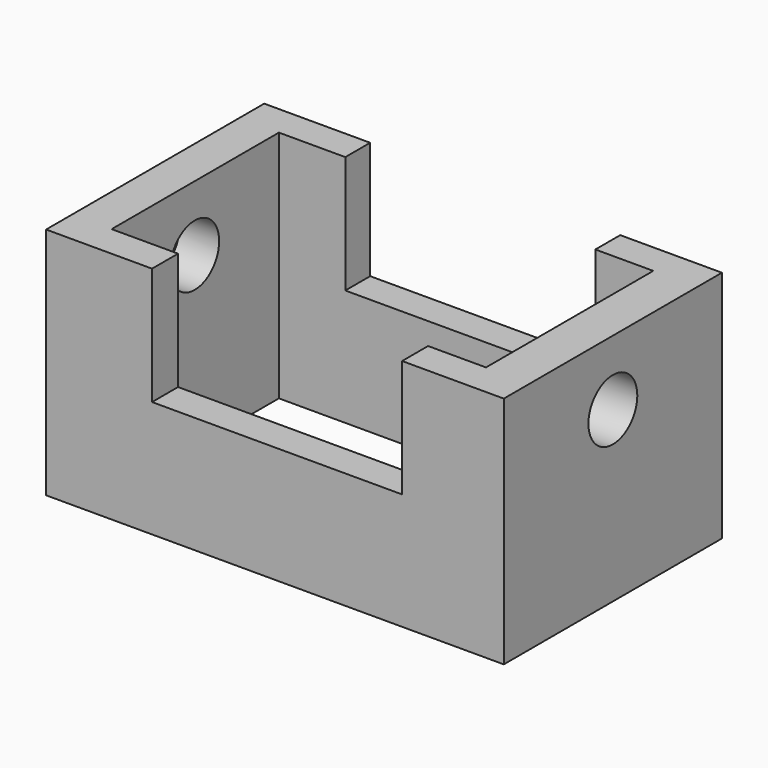
from build123d import *

# Parameters (mm, degrees)
F0_W     = 92.417967
F0_H     = 55.051444
F1_DEPTH = 47.244
F2_W     = 75.588774
F2_H     = 42.215616
F3_DEPTH = 47.245
F4_W     = 50.487596
F4_H     = 23.711647
F5_DEPTH = 55.052444
F6_R     = 6.170698
F7_DEPTH = 92.418967


with BuildPart() as f1:
    # F0 (on Top) → F1 (new body)
    with BuildSketch(Plane.XY):
        with Locations((6.275294, 2.852407)):
            Rectangle(F0_W, F0_H)
    extrude(amount=F1_DEPTH)

    # F2 (on face) → F3 (cut, through all)
    with BuildSketch(Plane.XY.offset(47.244)):
        with Locations((5.847434, 2.995027)):
            Rectangle(F2_W, F2_H)
    extrude(amount=-F3_DEPTH, mode=Mode.SUBTRACT)

    # F4 (on face) → F5 (cut, through all)
    with BuildSketch(Plane.XZ.offset(24.673315)):
        with Locations((6.703155, 35.388177)):
            Rectangle(F4_W, F4_H)
    extrude(amount=-F5_DEPTH, mode=Mode.SUBTRACT)

    # F6 (on face) → F7 (cut, through all)
    with BuildSketch(Plane.YZ.offset(52.484278)):
        with Locations((2.852408, 34.086257)):
            Circle(F6_R)
    extrude(amount=-F7_DEPTH, mode=Mode.SUBTRACT)


solid = f1.part
